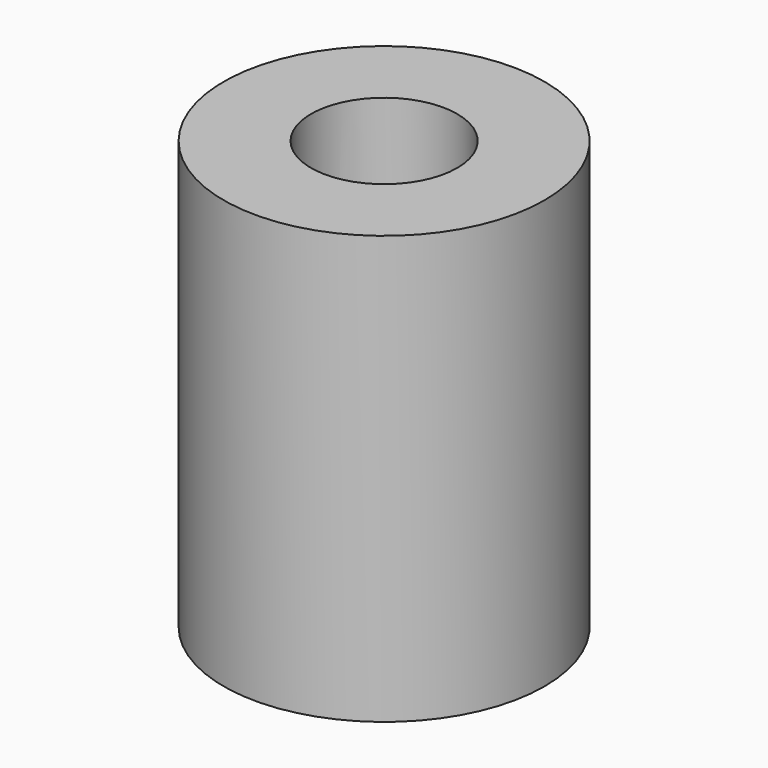
from build123d import *

# Parameters (mm, degrees)
F0_R     = 9
F1_DEPTH = 24
F2_R     = 4.1
F3_DEPTH = 12
F4_R     = 2.6
F5_DEPTH = 25
F6_R     = 1.5
F7_DEPTH = 25


with BuildPart() as f1:
    # F0 (on Top) → F1 (new body)
    with BuildSketch(Plane.XY):
        Circle(F0_R)
    extrude(amount=F1_DEPTH)

    # F2 (on face) → F3 (cut)
    with BuildSketch(Plane.XY.offset(24)):
        Circle(F2_R)
    extrude(amount=-F3_DEPTH, mode=Mode.SUBTRACT)

    # F4 (on face) → F5 (cut)
    with BuildSketch(Plane(origin=(0, 0, 0), x_dir=(1, 0, 0), z_dir=(0, 0, -1))):
        Circle(F4_R)
    extrude(amount=-F5_DEPTH, mode=Mode.SUBTRACT)

    # F6 (on Right) → F7 (cut)
    with BuildSketch(Plane.YZ):
        with Locations((0, 17)):
            Circle(F6_R)
        with Locations((0, 7)):
            Circle(F6_R)
    extrude(amount=-F7_DEPTH, mode=Mode.SUBTRACT)


solid = f1.part
